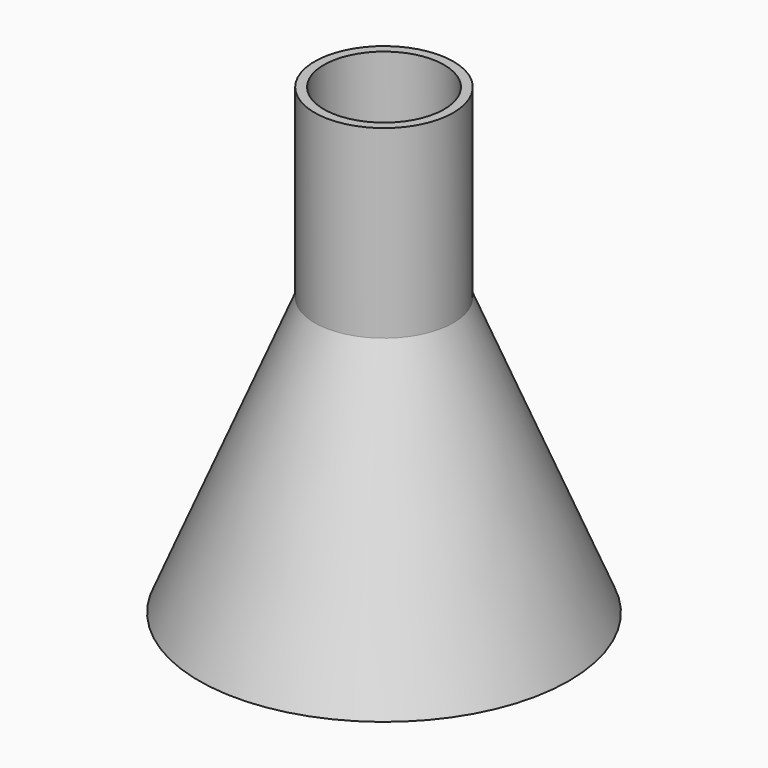
from build123d import *

# Parameters (mm, degrees)
F0_R     = 50.8
F2_R     = 19.05
F4_R     = 19.05
F5_DEPTH = 50.8
F6_T     = -2.54


with BuildPart() as f3:
    # F0 (on Top) → F3 section 0
    with BuildSketch(Plane.XY):
        Circle(F0_R)
    # F2 (on offset) → F3 section 1
    with BuildSketch(Plane.XY.offset(76.2)):
        Circle(F2_R)
    loft()

    # F4 (on face) → F5 (join)
    with BuildSketch(Plane.XY.offset(76.2)):
        Circle(F4_R)
    extrude(amount=F5_DEPTH)

    # F6
    f6_openings = [f3.faces().sort_by_distance(p)[0] for p in [
        (0, 0, 127),
    ]]
    offset(amount=F6_T, openings=f6_openings, kind=Kind.INTERSECTION)


solid = f3.part
